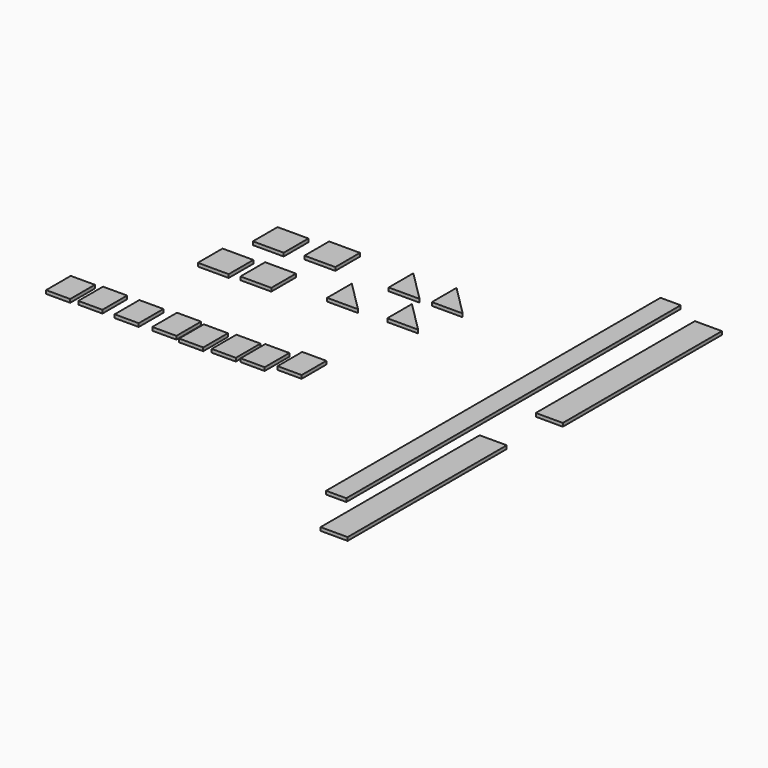
from build123d import *

# Parameters (mm, degrees)
F0_W     = 9.15
F0_H     = 9.15
F1_DEPTH = 1
F2_W     = 7.15
F2_H     = 9.15
F3_DEPTH = 1
F4_W     = 6
F4_H     = 124.04284
F4_W_2   = 8.025709
F4_H_2   = 59.02142
F5_DEPTH = 1


with BuildPart() as f1:
    # F0 (on Top) → F1 (new body)
    with BuildSketch(Plane.XY):
        with Locations((-75.734839, 36.879253)):
            Rectangle(F0_W, F0_H)
        with Locations((-78.96243, 20.510739)):
            Rectangle(F0_W, F0_H)
        with Locations((-61.902288, 38.723592)):
            Rectangle(F0_W, F0_H)
        with Locations((-66.974223, 21.317637)):
            Rectangle(F0_W, F0_H)
        Polygon((-40.010135, 20.918875), (-49.160135, 30.068875), (-49.160135, 20.918875), align=None)
        Polygon((-22.719449, 21.610502), (-31.869449, 30.760502), (-31.869449, 21.610502), align=None)
        Polygon((-32.11874, 33.882201), (-41.26874, 43.032201), (-41.26874, 33.882201), align=None)
        Polygon((-19.722399, 34.405607), (-28.872399, 43.555607), (-28.872399, 34.405607), align=None)
    extrude(amount=F1_DEPTH)


with BuildPart() as f3:
    # F2 (on Top) → F3 (new body)
    with BuildSketch(Plane.XY):
        with Locations((-98.86425, -12.175959)):
            Rectangle(F2_W, F2_H)
        with Locations((-89.651681, -11.726807)):
            Rectangle(F2_W, F2_H)
        with Locations((-78.872047, -11.726807)):
            Rectangle(F2_W, F2_H)
        with Locations((-68.092406, -11.236824)):
            Rectangle(F2_W, F2_H)
        with Locations((-59.599359, -11.890135)):
            Rectangle(F2_W, F2_H)
        with Locations((-50.453, -11.236824)):
            Rectangle(F2_W, F2_H)
        with Locations((-42.286608, -10.74684)):
            Rectangle(F2_W, F2_H)
        with Locations((-33.14025, -8.460251)):
            Rectangle(F2_W, F2_H)
    extrude(amount=F3_DEPTH)


with BuildPart() as f5:
    # F4 (on Top) → F5 (new body)
    with BuildSketch(Plane.XY):
        with Locations((14.14427, 7.165816)):
            Rectangle(F4_W, F4_H)
        with Locations((28.702007, 35.51071)):
            Rectangle(F4_W_2, F4_H_2)
        with Locations((25.549048, -40.385623)):
            Rectangle(F4_W_2, F4_H_2)
    extrude(amount=F5_DEPTH)


solid = Compound([f1.part, f3.part, f5.part])
